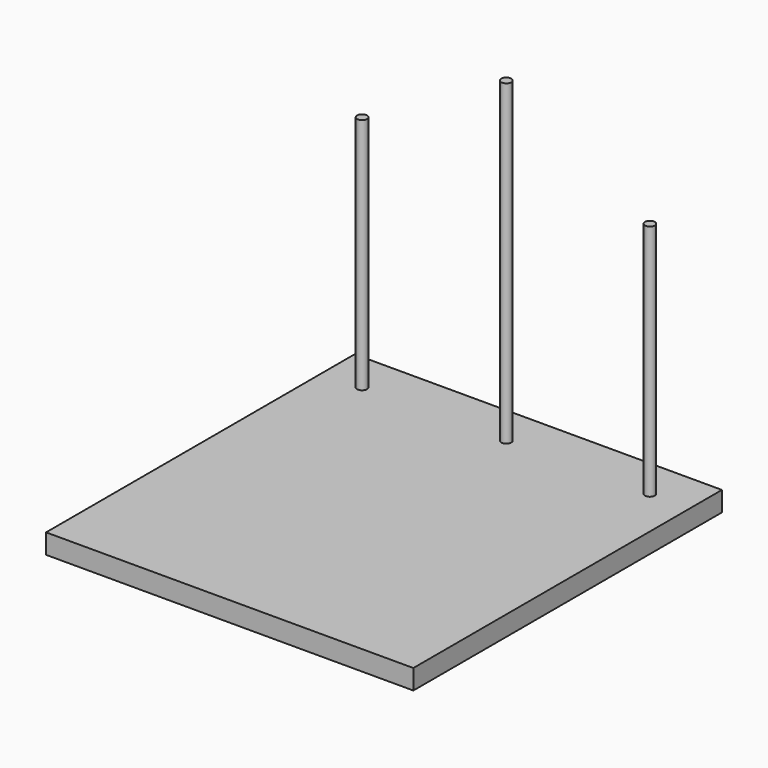
from build123d import *

# Parameters (mm, degrees)
F0_W     = 235.324252
F0_H     = 247.140977
F1_DEPTH = 12.7
F2_R     = 3.200051
F3_DEPTH = 152.4
F4_R     = 3.156732
F5_DEPTH = 152.4
F6_R     = 3.21323
F7_DEPTH = 203.2


with BuildPart() as f1:
    # F0 (on Top) → F1 (new body)
    with BuildSketch(Plane.XY):
        with Locations((6.829398, -24.4885)):
            Rectangle(F0_W, F0_H)
    extrude(amount=-F1_DEPTH)

    # F2 (on face) → F3 (join)
    with BuildSketch(Plane.XY):
        with Locations((-85.502937, 73.354565)):
            Circle(F2_R)
    extrude(amount=F3_DEPTH)

    # F4 (on face) → F5 (join)
    with BuildSketch(Plane.XY):
        with Locations((99.039346, 73.238835)):
            Circle(F4_R)
    extrude(amount=F5_DEPTH)

    # F6 (on face) → F7 (join)
    with BuildSketch(Plane.XY):
        with Locations((6.923744, 73.353745)):
            Circle(F6_R)
    extrude(amount=F7_DEPTH)


solid = f1.part
